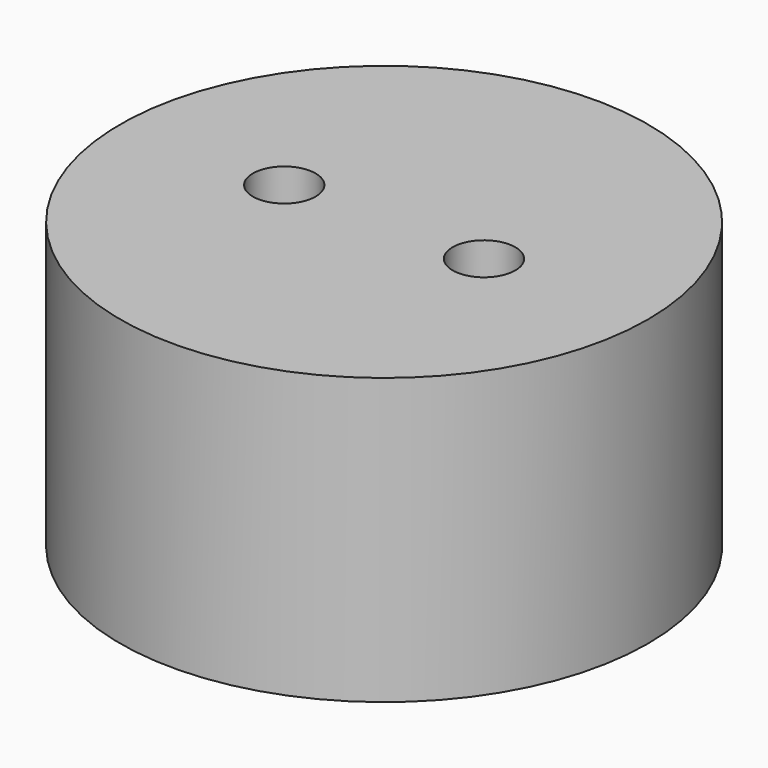
from build123d import *

# Parameters (mm, degrees)
F0_R     = 9.25
F0_R_2   = 8.25
F0_R_3   = 1.1
F1_DEPTH = 7
F2_DEPTH = 3


with BuildPart() as f1:
    # F0 (on Top) → F1 (new body)
    with BuildSketch(Plane.XY):
        Circle(F0_R)
        Circle(F0_R_2, mode=Mode.SUBTRACT)
        Circle(F0_R_2)
        with Locations((-3.5, 0)):
            Circle(F0_R_3, mode=Mode.SUBTRACT)
        with Locations((3.5, 0)):
            Circle(F0_R_3, mode=Mode.SUBTRACT)
    extrude(amount=F1_DEPTH)

    # F0 (on Top) → F2 (join)
    with BuildSketch(Plane.XY):
        Circle(F0_R)
        Circle(F0_R_2, mode=Mode.SUBTRACT)
    extrude(amount=-F2_DEPTH)


solid = f1.part
